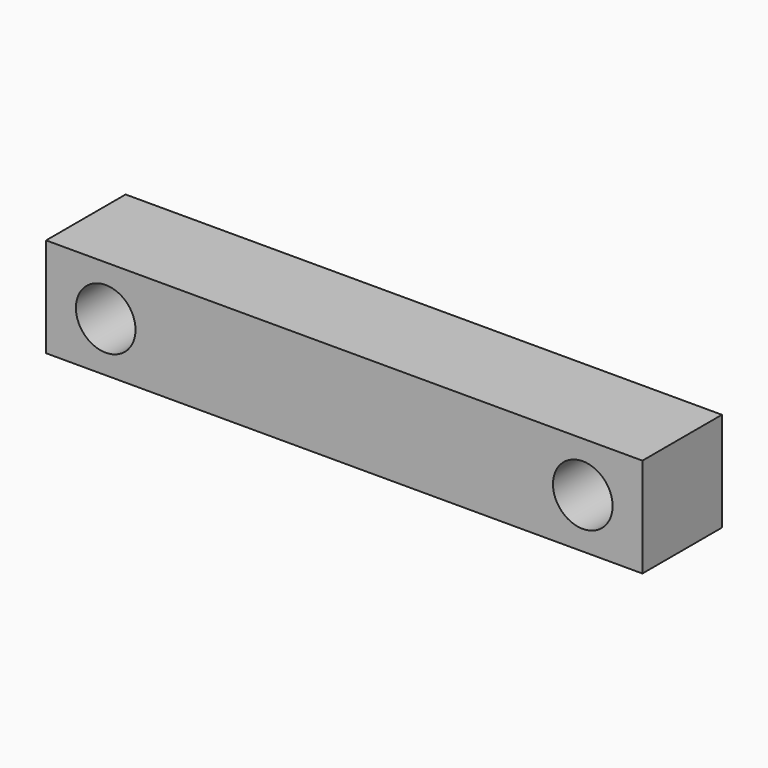
from build123d import *

# Parameters (mm, degrees)
F0_W     = 30
F0_H     = 5
F0_R     = 1.5
F1_DEPTH = 2.5


with BuildPart() as f1:
    # F0 (on Front) → F1 (new body, symmetric)
    with BuildSketch(Plane.XZ):
        with Locations((15, 2.5)):
            Rectangle(F0_W, F0_H)
        with Locations((3, 2.5)):
            Circle(F0_R, mode=Mode.SUBTRACT)
        with Locations((27, 2.5)):
            Circle(F0_R, mode=Mode.SUBTRACT)
    extrude(amount=F1_DEPTH, both=True)


solid = f1.part
